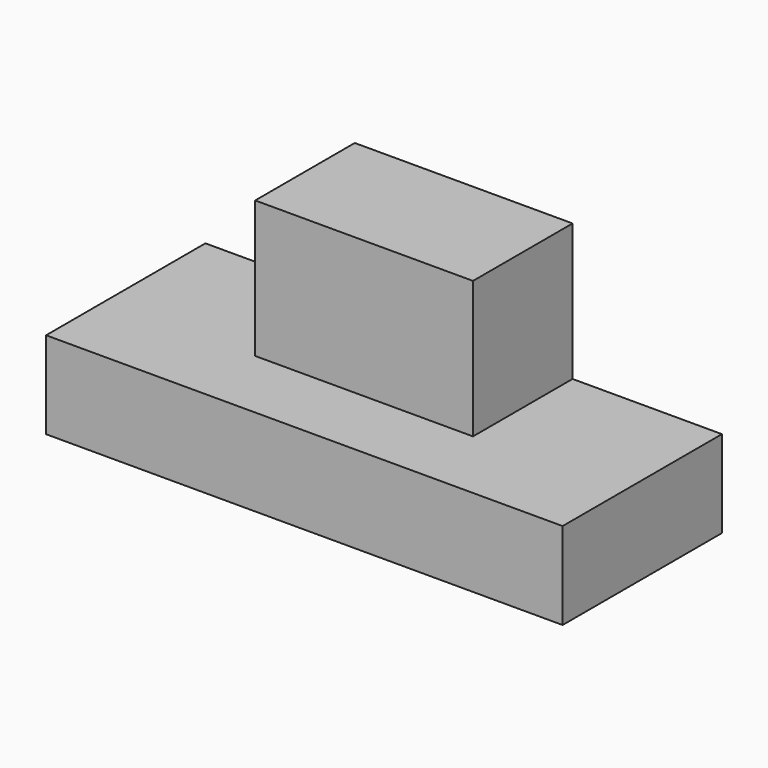
from build123d import *

# Parameters (mm, degrees)
F0_W     = 131.7625
F0_H     = 22.225
F1_DEPTH = 50.8
F3_DEPTH = 34.925


with BuildPart() as f1:
    # F0 (on Front) → F1 (new body)
    with BuildSketch(Plane.XZ):
        with Locations((65.88125, 11.1125)):
            Rectangle(F0_W, F0_H)
    extrude(amount=-F1_DEPTH)

    # F2 (on face) → F3 (join)
    with BuildSketch(Plane.XY.offset(22.225)):
        Polygon((93.654148, 50.8), (38.1, 50.8), (38.1, 19.05), (93.6625, 19.05), (93.6625, 50.8), align=None)
    extrude(amount=F3_DEPTH)


solid = f1.part
